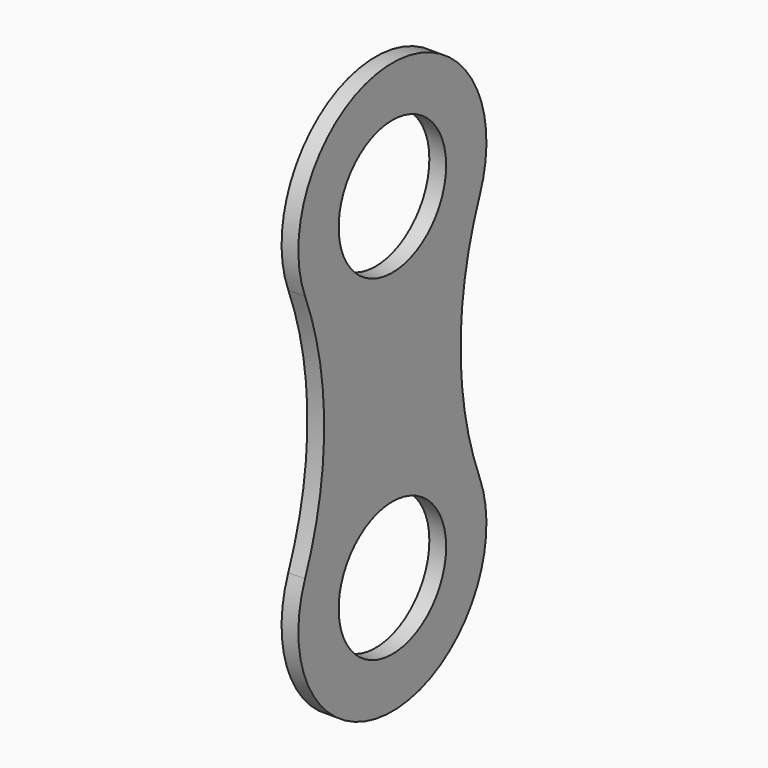
from build123d import *

# Parameters (mm, degrees)
F0_R     = 4
F1_DEPTH = 1


with BuildPart() as f1:
    # F0 (on Right) → F1 (new body)
    with BuildSketch(Plane.YZ):
        with BuildLine():
            ThreePointArc((6.502189, -7.407407), (5.079872, 0), (6.502189, 7.407407))
            ThreePointArc((6.502189, 7.407407), (0, 17), (-6.502189, 7.407407))
            ThreePointArc((-6.502189, 7.407407), (-5.079872, 0), (-6.502189, -7.407407))
            ThreePointArc((-6.502189, -7.407407), (0, -17), (6.502189, -7.407407))
        make_face()
        with Locations((0, -10)):
            Circle(F0_R, mode=Mode.SUBTRACT)
        with Locations((0, 10)):
            Circle(F0_R, mode=Mode.SUBTRACT)
    extrude(amount=F1_DEPTH)


solid = f1.part
